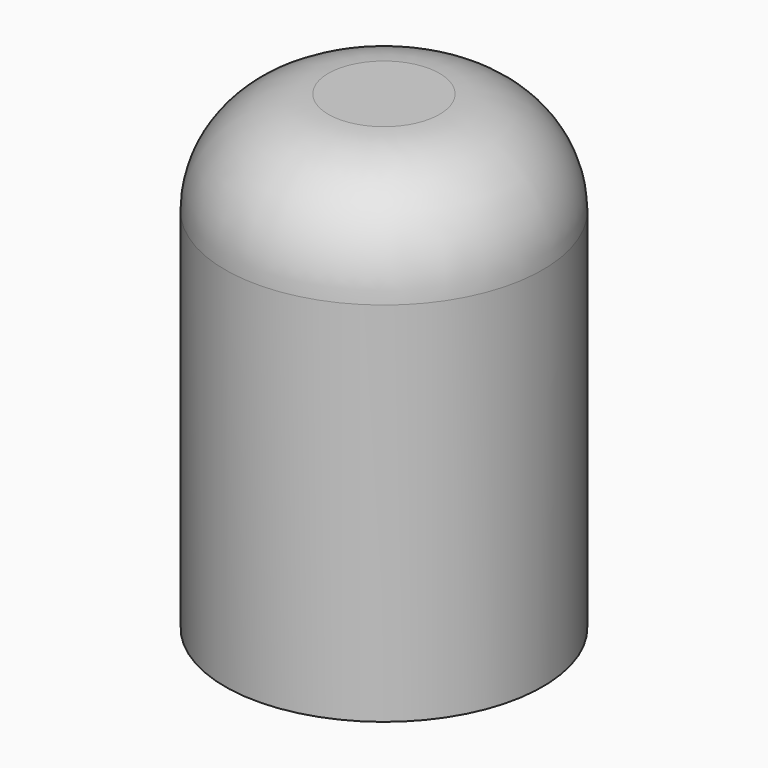
from build123d import *


with BuildPart() as f1:
    # F0 (on Front) → F1 (revolve)
    with BuildSketch(Plane.XZ):
        with BuildLine():
            Line((-50, 55.968633), (-50, -59.531367))
            Line((-50, -59.531367), (-40, -59.531367))
            Line((-40, -59.531367), (-40, 55.968633))
            ThreePointArc((-40, 55.968633), (-33.409903, 71.878535), (-17.5, 78.468633))
            Line((-17.5, 78.468633), (0, 78.468633))
            Line((0, 78.468633), (0, 88.468633))
            Line((0, 88.468633), (-17.5, 88.468633))
            ThreePointArc((-17.5, 88.468633), (-40.48097, 78.949603), (-50, 55.968633))
        make_face()
    revolve(axis=Axis((0, 0, 72.704531), (0, 0, 1)))


solid = f1.part
